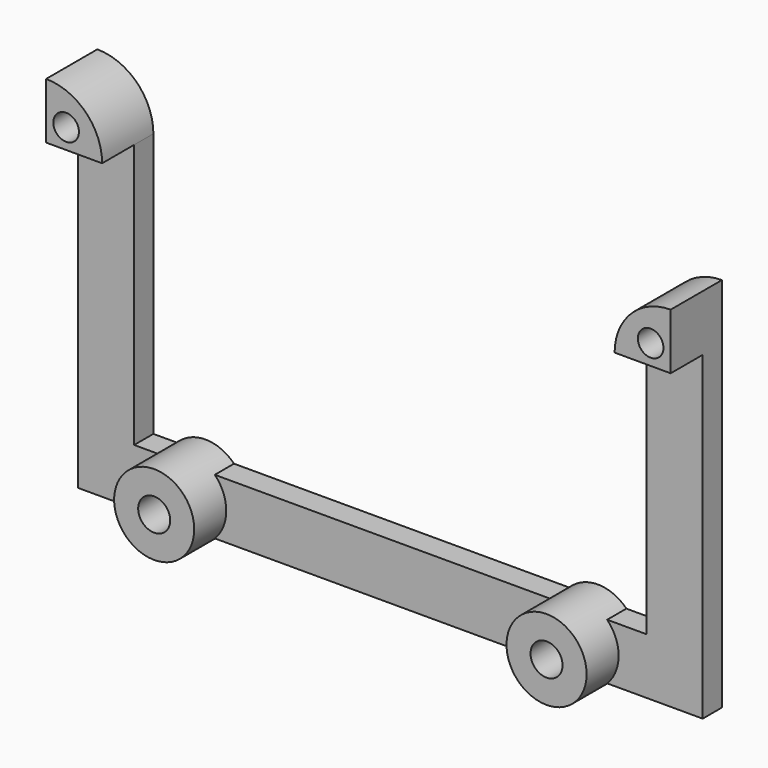
from build123d import *

# Parameters (mm, degrees)
CYLINDER032_R     = 2
CYLINDER032_DEPTH = 8
CYLINDER035_R     = 2
CYLINDER035_DEPTH = 8
CYLINDER038_R     = 1.6
CYLINDER038_DEPTH = 8
CYLINDER039_R     = 1.6
CYLINDER039_DEPTH = 8
CYLINDER037_W     = 7
CYLINDER037_H     = 8
CYLINDER037_ANGLE = 90
BOX025_W          = 78
BOX025_H          = 3
BOX025_DEPTH      = 7
BOX026_W          = 40
BOX026_H          = 3
BOX026_DEPTH      = 7
CYLINDER034_R     = 5
CYLINDER034_DEPTH = 8
CYLINDER031_R     = 5
CYLINDER031_DEPTH = 8
BOX027_W          = 40
BOX027_H          = 3
BOX027_DEPTH      = 7
CYLINDER036_W     = 7
CYLINDER036_H     = 8
CYLINDER036_ANGLE = 90


with BuildPart() as cuts:
    # Cylinder032 → Cylinder032 (new body)
    with BuildSketch(Plane(origin=(13.5, -2, 61.5), x_dir=(1, 0, 0), z_dir=(0, -1, 0))):
        Circle(CYLINDER032_R)
    extrude(amount=CYLINDER032_DEPTH)


with BuildPart() as cuts001:
    # Cylinder035 → Cylinder035 (new body)
    with BuildSketch(Plane(origin=(62.5, -2, 61.5), x_dir=(1, 0, 0), z_dir=(0, -1, 0))):
        Circle(CYLINDER035_R)
    extrude(amount=CYLINDER035_DEPTH)


with BuildPart() as m3screw:
    # Cylinder038 → Cylinder038 (new body)
    with BuildSketch(Plane(origin=(75.5, -2, 100.5), x_dir=(1, 0, 0), z_dir=(0, -1, 0))):
        Circle(CYLINDER038_R)
    extrude(amount=CYLINDER038_DEPTH)


with BuildPart() as c4oldcuts:
    # Cylinder039 → Cylinder039 (new body)
    with BuildSketch(Plane(origin=(2.5, -2, 100.5), x_dir=(1, 0, 0), z_dir=(0, -1, 0))):
        Circle(CYLINDER039_R)
    extrude(amount=CYLINDER039_DEPTH)

    # Fusion016: union cuts, cuts001, m3Screw
    add(cuts.part)
    add(cuts001.part)
    add(m3screw.part)


with BuildPart() as cylinder037:
    # Cylinder037 → Cylinder037 (revolve)
    with BuildSketch(Plane(origin=(0, -2, 98), x_dir=(1, 0, 0), z_dir=(0, 0, -1))):
        with Locations((3.5, 4)):
            Rectangle(CYLINDER037_W, CYLINDER037_H)
    revolve(axis=Axis((0, -2, 98), (0, -1, 0)), revolution_arc=CYLINDER037_ANGLE)


with BuildPart() as cube020:
    # Box025 → Box025 (new body)
    with BuildSketch(Plane(origin=(0, -5, 58), x_dir=(1, 0, 0), z_dir=(0, 0, 1))):
        with Locations((39, 1.5)):
            Rectangle(BOX025_W, BOX025_H)
    extrude(amount=BOX025_DEPTH)


with BuildPart() as cube021:
    # Box026 → Box026 (new body)
    with BuildSketch(Plane(origin=(7, -5, 58), x_dir=(0, 0, 1), z_dir=(-1, 0, 0))):
        with Locations((20, 1.5)):
            Rectangle(BOX026_W, BOX026_H)
    extrude(amount=BOX026_DEPTH)


with BuildPart() as cylinder034:
    # Cylinder034 → Cylinder034 (new body)
    with BuildSketch(Plane(origin=(62.5, -2, 61.5), x_dir=(1, 0, 0), z_dir=(0, -1, 0))):
        Circle(CYLINDER034_R)
    extrude(amount=CYLINDER034_DEPTH)


with BuildPart() as cylinder031:
    # Cylinder031 → Cylinder031 (new body)
    with BuildSketch(Plane(origin=(13.5, -2, 61.5), x_dir=(1, 0, 0), z_dir=(0, -1, 0))):
        Circle(CYLINDER031_R)
    extrude(amount=CYLINDER031_DEPTH)


with BuildPart() as fusion014:
    # Box027 → Box027 (new body)
    with BuildSketch(Plane(origin=(78, -5, 58), x_dir=(0, 0, 1), z_dir=(-1, 0, 0))):
        with Locations((20, 1.5)):
            Rectangle(BOX027_W, BOX027_H)
    extrude(amount=BOX027_DEPTH)

    # Fusion014: union Cube020, Cube021, Cylinder034, Cylinder031
    add(cube020.part)
    add(cube021.part)
    add(cylinder034.part)
    add(cylinder031.part)


with BuildPart() as c4hold001:
    # Cylinder036 → Cylinder036 (revolve)
    with BuildSketch(Plane(origin=(78, -2, 98), x_dir=(0, 0, 1), z_dir=(1, 0, 0))):
        with Locations((3.5, 4)):
            Rectangle(CYLINDER036_W, CYLINDER036_H)
    revolve(axis=Axis((78, -2, 98), (0, -1, 0)), revolution_arc=CYLINDER036_ANGLE)

    # Fusion015: union Cylinder037, Fusion014
    add(cylinder037.part)
    add(fusion014.part)

    # Cut024: cut c4oldCuts
    add(c4oldcuts.part, mode=Mode.SUBTRACT)


solid = c4hold001.part
